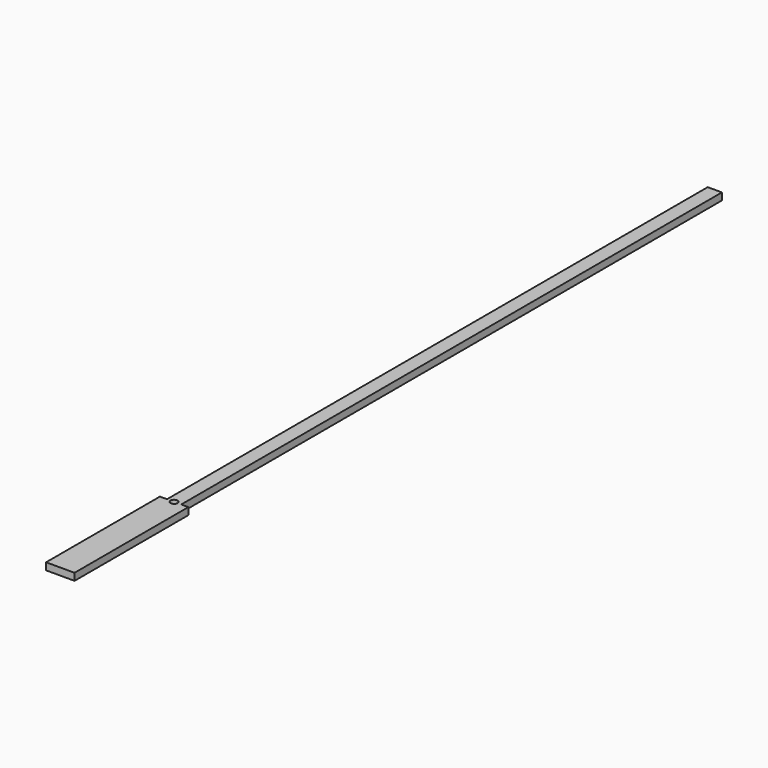
from build123d import *

# Parameters (mm, degrees)
F1_DEPTH = 1
F2_R     = 0.5
F3_DEPTH = 1.001


with BuildPart() as f1:
    # F0 (on Top) → F1 (new body)
    with BuildSketch(Plane.XY):
        Polygon((1, 95), (-1, 95), (-1, 0), (-2, 0), (-2, -20), (2, -20), (2, 0), (1, 0), align=None)
    extrude(amount=F1_DEPTH)

    # F2 (on face) → F3 (cut, through all)
    with BuildSketch(Plane.XY.offset(1)):
        Circle(F2_R)
    extrude(amount=-F3_DEPTH, mode=Mode.SUBTRACT)


solid = f1.part
